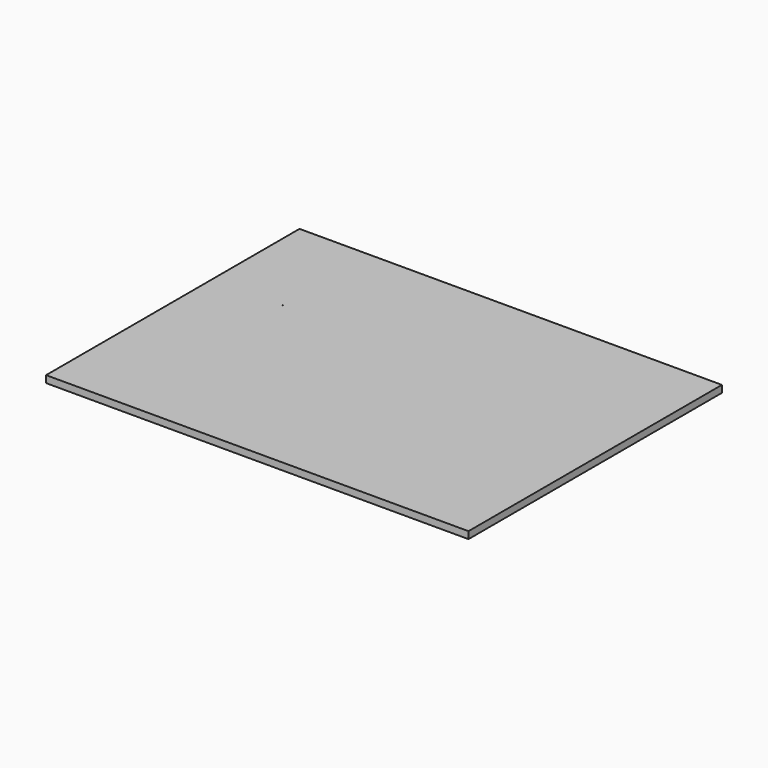
from build123d import *

# Parameters (mm, degrees)
F0_W     = 6096
F0_H     = 4572
F1_DEPTH = 101.6
F3_D     = 6.35


with BuildPart() as f1:
    # F0 (on Top) → F1 (new body)
    with BuildSketch(Plane.XY):
        with Locations((3048, 2286)):
            Rectangle(F0_W, F0_H)
    extrude(amount=F1_DEPTH)

    # F3 (through all)
    with Locations(Plane.XY.offset(101.6)):
        with Locations((508, 2999.485468), (1016, 2999.485468), (508, 4267.2)):
            Hole(F3_D / 2)


solid = f1.part
